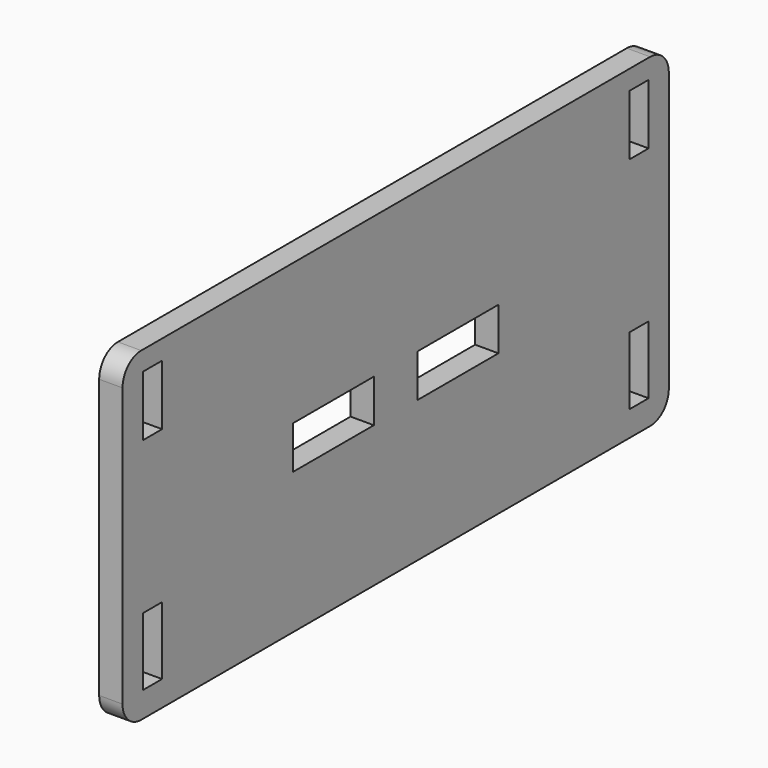
from build123d import *

# Parameters (mm, degrees)
F0_W     = 87.7
F0_H     = 41.75
F0_W_2   = 3.1
F0_H_2   = 8.7
F0_W_3   = 13
F0_H_3   = 5.5
F0_H_4   = 7.75
F1_DEPTH = 3
F2_R     = 3


with BuildPart() as f1:
    # F0 (on Right) → F1 (new body)
    with BuildSketch(Plane.YZ):
        Rectangle(F0_W, F0_H)
        with Locations((-39.05, -13.275)):
            Rectangle(F0_W_2, F0_H_2, mode=Mode.SUBTRACT)
        with Locations((39.05, -13.275)):
            Rectangle(F0_W_2, F0_H_2, mode=Mode.SUBTRACT)
        with Locations((-10, 0)):
            Rectangle(F0_W_3, F0_H_3, mode=Mode.SUBTRACT)
        with Locations((-39.05, 14.5)):
            Rectangle(F0_W_2, F0_H_4, mode=Mode.SUBTRACT)
        with Locations((10, 0)):
            Rectangle(F0_W_3, F0_H_3, mode=Mode.SUBTRACT)
        with Locations((39.05, 14.5)):
            Rectangle(F0_W_2, F0_H_4, mode=Mode.SUBTRACT)
    extrude(amount=F1_DEPTH)

    # F2
    f2_edges = [f1.edges().sort_by_distance(p)[0] for p in [
        (1.5, -43.85, 20.875),
        (1.5, -43.85, -20.875),
        (1.5, 43.85, 20.875),
        (1.5, 43.85, -20.875),
    ]]
    fillet(f2_edges, radius=F2_R)


solid = f1.part
